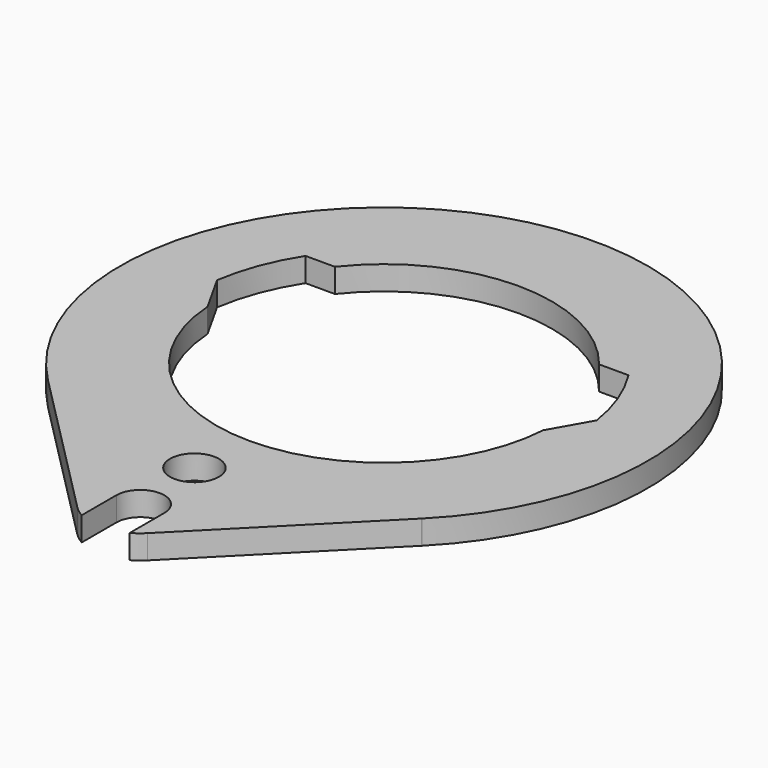
from build123d import *

# Parameters (mm, degrees)
F0_R     = 3.233186
F1_DEPTH = 3.175


with BuildPart() as f1:
    # F0 (on Top) → F1 (new body)
    with BuildSketch(Plane.XY):
        with BuildLine():
            Line((24.698584, -24.693283), (24.761808, -24.629424))
            ThreePointArc((24.761808, -24.629424), (0.030307, 34.924987), (-24.804516, -24.586411))
            Line((-24.804516, -24.586411), (-4.650402, -44.919312))
            ThreePointArc((-4.650402, -44.919312), (-3.952362, -45.530209), (-3.175, -46.036336))
            Line((-3.175, -46.036336), (-3.175, -40.3098))
            ThreePointArc((-3.175, -40.3098), (0, -37.1348), (3.175, -40.3098))
            Line((3.175, -40.3098), (3.175, -46.036336))
            ThreePointArc((3.175, -46.036336), (3.952362, -45.530209), (4.650402, -44.919312))
            Line((4.650402, -44.919312), (24.698584, -24.693283))
        make_face()
        with Locations((-0.703903, -30.48)):
            Circle(F0_R, mode=Mode.SUBTRACT)
        with BuildLine():
            ThreePointArc((22.180412, -1.4071), (0.032937, -22.224976), (-22.176144, -1.472834))
            Line((-22.176144, -1.472834), (-25.118009, 3.774338))
            ThreePointArc((-25.118009, 3.774338), (-23.772102, 8.946907), (-21.373594, 13.723318))
            Line((-21.373594, 13.723318), (-17.482024, 13.723318))
            ThreePointArc((-17.482024, 13.723318), (0, 22.225), (17.482024, 13.723318))
            Line((17.482024, 13.723318), (21.373594, 13.723318))
            ThreePointArc((21.373594, 13.723318), (23.772102, 8.946907), (25.118009, 3.774338))
            Line((25.118009, 3.774338), (22.180412, -1.4071))
        make_face(mode=Mode.SUBTRACT)
    extrude(amount=F1_DEPTH)


solid = f1.part
